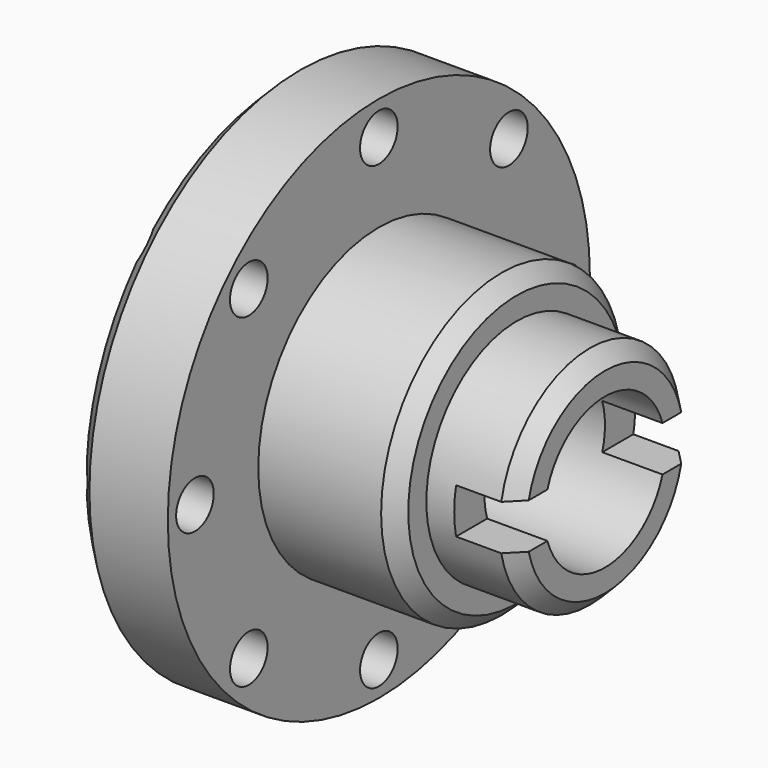
from build123d import *

# Parameters (mm, degrees)
F2_SIZE       = 2.54
F3_W          = 50.8
F3_H          = 7.62
F4_DEPTH      = 42.672
F6_R          = 3.9624
F7_DEPTH      = 38.608
F7_DEPTH_BACK = 9.398
F8_COUNT      = 8


with BuildPart() as f1:
    # F0 (on Top) → F1 (revolve)
    with BuildSketch(Plane.XY):
        Polygon((0, 25.4), (0, 44.45), (-15.748, 44.45), (-15.748, 12.7), (38.1, 12.7), (38.1, 19.05), (23.241, 19.05), (23.241, 25.4), align=None)
    revolve(axis=Axis((76.2, 0, 0), (1, 0, 0)))

    # F2
    f2_edges = [f1.edges().sort_by_distance(p)[0] for p in [
        (38.1, -19.05, 0),
        (23.241, -25.4, 0),
        (-15.748, -44.45, 0),
    ]]
    chamfer(f2_edges, length=F2_SIZE)


with BuildPart() as f4:
    # F3 (on Front) → F4 (new body, symmetric)
    with BuildSketch(Plane.XZ):
        with Locations((53.34, 0)):
            Rectangle(F3_W, F3_H)
    extrude(amount=F4_DEPTH, both=True)


with BuildPart() as f1_1:
    add(f1.part)

    # F5: cut F4
    add(f4.part, mode=Mode.SUBTRACT)


with BuildPart() as f7:
    # F6 (on face) → F7 (new body, two sides)
    with BuildSketch(Plane.YZ) as f7_sk:
        with Locations((0, -38.735)):
            Circle(F6_R)
    extrude(amount=-F7_DEPTH)
    extrude(f7_sk.sketch, amount=F7_DEPTH_BACK)


with BuildPart() as f8_1:
    # F8: instance of F7
    add(f7.part.rotate(Axis((-15.748, 0, 0), (1, 0, 0)), 1 * 360 / F8_COUNT))


with BuildPart() as f8_2:
    # F8: instance of F7
    add(f7.part.rotate(Axis((-15.748, 0, 0), (1, 0, 0)), 2 * 360 / F8_COUNT))


with BuildPart() as f8_3:
    # F8: instance of F7
    add(f7.part.rotate(Axis((-15.748, 0, 0), (1, 0, 0)), 3 * 360 / F8_COUNT))


with BuildPart() as f8_4:
    # F8: instance of F7
    add(f7.part.rotate(Axis((-15.748, 0, 0), (1, 0, 0)), 4 * 360 / F8_COUNT))


with BuildPart() as f8_5:
    # F8: instance of F7
    add(f7.part.rotate(Axis((-15.748, 0, 0), (1, 0, 0)), 5 * 360 / F8_COUNT))


with BuildPart() as f8_6:
    # F8: instance of F7
    add(f7.part.rotate(Axis((-15.748, 0, 0), (1, 0, 0)), 6 * 360 / F8_COUNT))


with BuildPart() as f8_7:
    # F8: instance of F7
    add(f7.part.rotate(Axis((-15.748, 0, 0), (1, 0, 0)), 7 * 360 / F8_COUNT))


with BuildPart() as f1_2:
    add(f1_1.part)

    # F9: cut F8_5, F7, F8_1, F8_4, F8_7, F8_6, F8_2, F8_3
    add(f8_5.part, mode=Mode.SUBTRACT)
    add(f7.part, mode=Mode.SUBTRACT)
    add(f8_1.part, mode=Mode.SUBTRACT)
    add(f8_4.part, mode=Mode.SUBTRACT)
    add(f8_7.part, mode=Mode.SUBTRACT)
    add(f8_6.part, mode=Mode.SUBTRACT)
    add(f8_2.part, mode=Mode.SUBTRACT)
    add(f8_3.part, mode=Mode.SUBTRACT)


solid = f1_2.part
